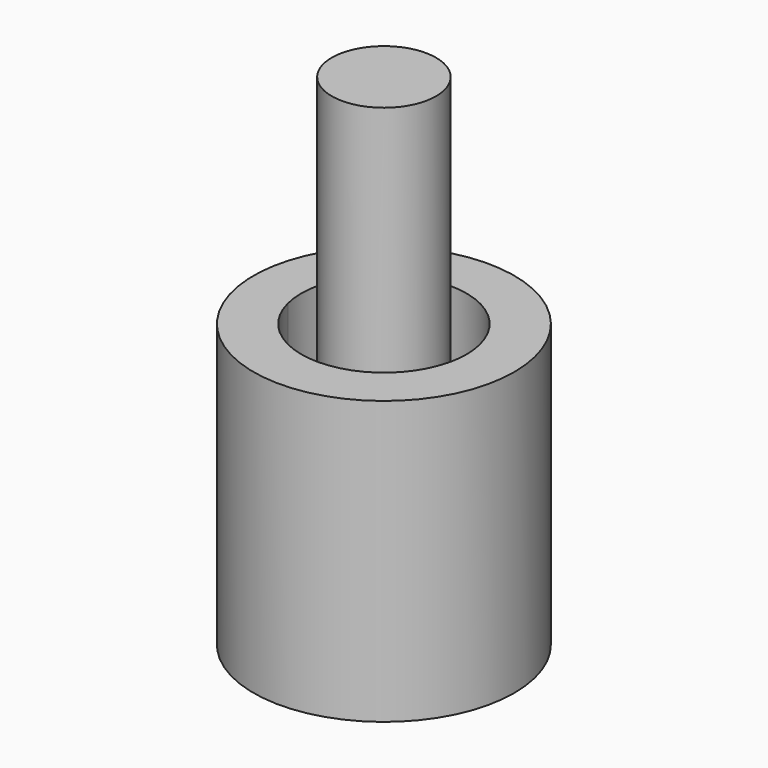
from build123d import *

# Parameters (mm, degrees)
F0_R     = 3
F0_R_2   = 1.9
F0_R_3   = 1.2
F1_DEPTH = 2
F2_R     = 3
F2_R_2   = 1.9
F3_DEPTH = 1
F4_R     = 3
F5_DEPTH = 0.5
F6_R     = 3
F7_DEPTH = 3
F8_DEPTH = 5


with BuildPart() as f1:
    # F0 (on Top) → F1 (new body)
    with BuildSketch(Plane.XY):
        with Locations((-10.4432452041, 0)):
            Circle(F0_R)
        with Locations((-10.4432452041, 0)):
            Circle(F0_R_2, mode=Mode.SUBTRACT)
        with Locations((-10.4432452041, 0)):
            Circle(F0_R_2)
        with Locations((-10.4432452041, 0)):
            Circle(F0_R_3, mode=Mode.SUBTRACT)
        with Locations((-10.4432452041, 0)):
            Circle(F0_R_3)
    extrude(amount=F1_DEPTH)

    # F2 (on face) → F3 (join)
    with BuildSketch(Plane.XY.offset(2)):
        with Locations((-10.4432452041, 0)):
            Circle(F2_R)
        with Locations((-10.4432452041, 0)):
            Circle(F2_R_2, mode=Mode.SUBTRACT)
    extrude(amount=F3_DEPTH)

    # F4 (on face) → F5 (join)
    with BuildSketch(Plane.XY.offset(3)):
        with Locations((-10.4432452041, 0)):
            Circle(F4_R)
        with BuildLine():
            ThreePointArc((-12.2866257343, 0.4603783455), (-10.4432452041, 1.9), (-8.5998646739, 0.4603783455))
            Line((-8.5998646739, 0.4603783455), (-7.8815174605, 0.4603783455))
            Line((-7.8815174605, 0.4603783455), (-7.8815174605, -0.4603783455))
            Line((-7.8815174605, -0.4603783455), (-8.5998646739, -0.4603783455))
            ThreePointArc((-8.5998646739, -0.4603783455), (-10.4432452041, -1.9), (-12.2866257343, -0.4603783455))
            Line((-12.2866257343, -0.4603783455), (-12.7640617396, -0.4603783455))
            Line((-12.7640617396, -0.4603783455), (-12.7640617396, 0.4603783455))
            Line((-12.7640617396, 0.4603783455), (-12.2866257343, 0.4603783455))
        make_face(mode=Mode.SUBTRACT)
        with BuildLine():
            ThreePointArc((-12.2866257343, -0.4603783455), (-12.3432452041, 0), (-12.2866257343, 0.4603783455))
            Line((-12.2866257343, 0.4603783455), (-12.7640617396, 0.4603783455))
            Line((-12.7640617396, 0.4603783455), (-12.7640617396, -0.4603783455))
            Line((-12.7640617396, -0.4603783455), (-12.2866257343, -0.4603783455))
        make_face()
        with BuildLine():
            ThreePointArc((-11.5514201808, -0.4603783455), (-11.6432452041, 0), (-11.5514201808, 0.4603783455))
            Line((-11.5514201808, 0.4603783455), (-12.2866257343, 0.4603783455))
            ThreePointArc((-12.2866257343, 0.4603783455), (-12.3432452041, 0), (-12.2866257343, -0.4603783455))
            Line((-12.2866257343, -0.4603783455), (-11.5514201808, -0.4603783455))
        make_face()
        with BuildLine():
            ThreePointArc((-9.3350702274, -0.4603783455), (-9.2664253428, -0.234723271), (-9.2432452041, 0))
            ThreePointArc((-9.2432452041, 0), (-9.2664253428, 0.234723271), (-9.3350702274, 0.4603783455))
            Line((-9.3350702274, 0.4603783455), (-11.5514201808, 0.4603783455))
            ThreePointArc((-11.5514201808, 0.4603783455), (-11.6432452041, 0), (-11.5514201808, -0.4603783455))
            Line((-11.5514201808, -0.4603783455), (-9.3350702274, -0.4603783455))
        make_face()
        with BuildLine():
            Line((-11.5514201808, 0.4603783455), (-9.3350702274, 0.4603783455))
            ThreePointArc((-9.3350702274, 0.4603783455), (-10.4432452041, 1.2), (-11.5514201808, 0.4603783455))
        make_face()
        with BuildLine():
            ThreePointArc((-11.5514201808, -0.4603783455), (-10.4432452041, -1.2), (-9.3350702274, -0.4603783455))
            Line((-9.3350702274, -0.4603783455), (-11.5514201808, -0.4603783455))
        make_face()
        with BuildLine():
            ThreePointArc((-9.3350702274, 0.4603783455), (-9.2664253428, 0.234723271), (-9.2432452041, 0))
            ThreePointArc((-9.2432452041, 0), (-9.2664253428, -0.234723271), (-9.3350702274, -0.4603783455))
            Line((-9.3350702274, -0.4603783455), (-8.5998646739, -0.4603783455))
            ThreePointArc((-8.5998646739, -0.4603783455), (-8.5574531944, -0.2319234708), (-8.5432452041, 0))
            ThreePointArc((-8.5432452041, 0), (-8.5574531944, 0.2319234708), (-8.5998646739, 0.4603783455))
            Line((-8.5998646739, 0.4603783455), (-9.3350702274, 0.4603783455))
        make_face()
        with BuildLine():
            Line((-7.8815174605, 0.4603783455), (-8.5998646739, 0.4603783455))
            ThreePointArc((-8.5998646739, 0.4603783455), (-8.5574531944, 0.2319234708), (-8.5432452041, 0))
            ThreePointArc((-8.5432452041, 0), (-8.5574531944, -0.2319234708), (-8.5998646739, -0.4603783455))
            Line((-8.5998646739, -0.4603783455), (-7.8815174605, -0.4603783455))
            Line((-7.8815174605, -0.4603783455), (-7.8815174605, 0.4603783455))
        make_face()
    extrude(amount=F5_DEPTH)

    # F6 (on face) → F7 (join)
    with BuildSketch(Plane.XY.offset(3.5)):
        with Locations((-10.4432452041, 0)):
            Circle(F6_R)
        with BuildLine():
            ThreePointArc((-12.2866257343, 0.4603783455), (-10.4432452041, 1.9), (-8.5998646739, 0.4603783455))
            ThreePointArc((-8.5998646739, 0.4603783455), (-8.5574531944, 0.2319234708), (-8.5432452041, 0))
            ThreePointArc((-8.5432452041, 0), (-8.5574531944, -0.2319234708), (-8.5998646739, -0.4603783455))
            ThreePointArc((-8.5998646739, -0.4603783455), (-10.4432452041, -1.9), (-12.2866257343, -0.4603783455))
            ThreePointArc((-12.2866257343, -0.4603783455), (-12.3432452041, 0), (-12.2866257343, 0.4603783455))
        make_face(mode=Mode.SUBTRACT)
        with BuildLine():
            ThreePointArc((-9.3350702274, -0.4603783455), (-9.2664253428, -0.234723271), (-9.2432452041, 0))
            ThreePointArc((-9.2432452041, 0), (-9.2664253428, 0.234723271), (-9.3350702274, 0.4603783455))
            ThreePointArc((-9.3350702274, 0.4603783455), (-10.4432452041, 1.2), (-11.5514201808, 0.4603783455))
            ThreePointArc((-11.5514201808, 0.4603783455), (-11.6432452041, 0), (-11.5514201808, -0.4603783455))
            ThreePointArc((-11.5514201808, -0.4603783455), (-10.4432452041, -1.2), (-9.3350702274, -0.4603783455))
        make_face()
    extrude(amount=F7_DEPTH)

    # F8 (add): a face of the model
    f8_faces = [f1.faces().sort_by_distance(p)[0] for p in [
        (-10.4432452041, 0, 6.5),
    ]]
    extrude(f8_faces, amount=F8_DEPTH)


solid = f1.part
